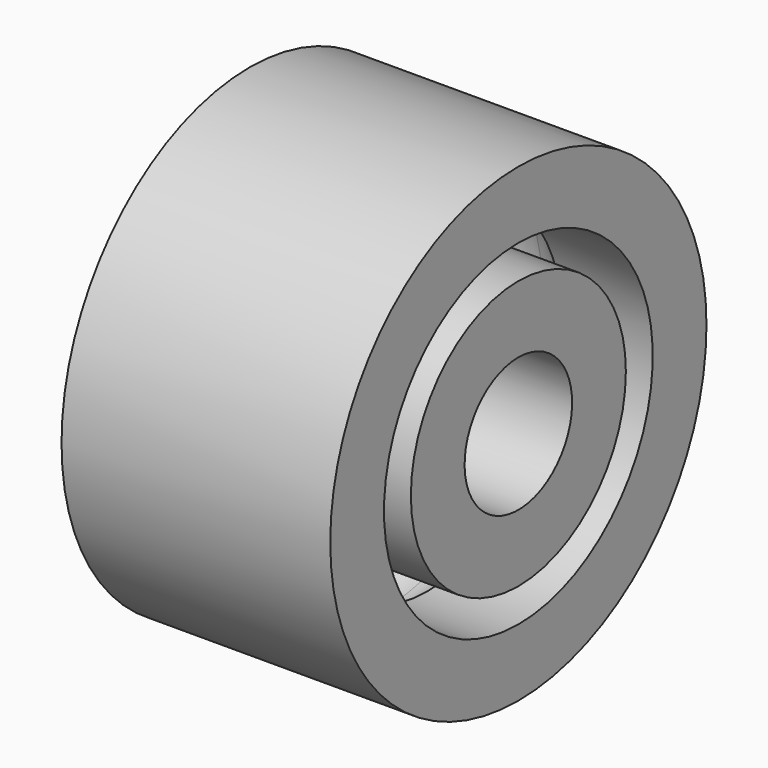
from build123d import *


with BuildPart() as f1:
    # F0 (on Front) → F1 (revolve)
    with BuildSketch(Plane.XZ):
        with BuildLine():
            Line((20, 35), (0, 35))
            Line((0, 35), (0, 29.5))
            ThreePointArc((0, 29.5), (3.968627, 28.266281), (6.538348, 25))
            Line((6.538348, 25), (20, 25))
            Line((20, 25), (20, 35))
        make_face()
        with BuildLine():
            Line((0, 29.5), (0, 35))
            Line((0, 35), (-20, 35))
            Line((-20, 35), (-20, 25))
            Line((-20, 25), (-6.538348, 25))
            ThreePointArc((-6.538348, 25), (-3.968627, 28.266281), (0, 29.5))
        make_face()
        with BuildLine():
            Line((20, 20), (6.538348, 20))
            ThreePointArc((6.538348, 20), (3.968627, 16.733719), (0, 15.5))
            Line((0, 15.5), (0, 10))
            Line((0, 10), (20, 10))
            Line((20, 10), (20, 20))
        make_face()
        with BuildLine():
            Line((0, 10), (0, 15.5))
            ThreePointArc((0, 15.5), (-3.968627, 16.733719), (-6.538348, 20))
            Line((-6.538348, 20), (-20, 20))
            Line((-20, 20), (-20, 10))
            Line((-20, 10), (0, 10))
        make_face()
    revolve(axis=Axis((22.886599, 0, 0), (1, 0, 0)))


solid = f1.part
